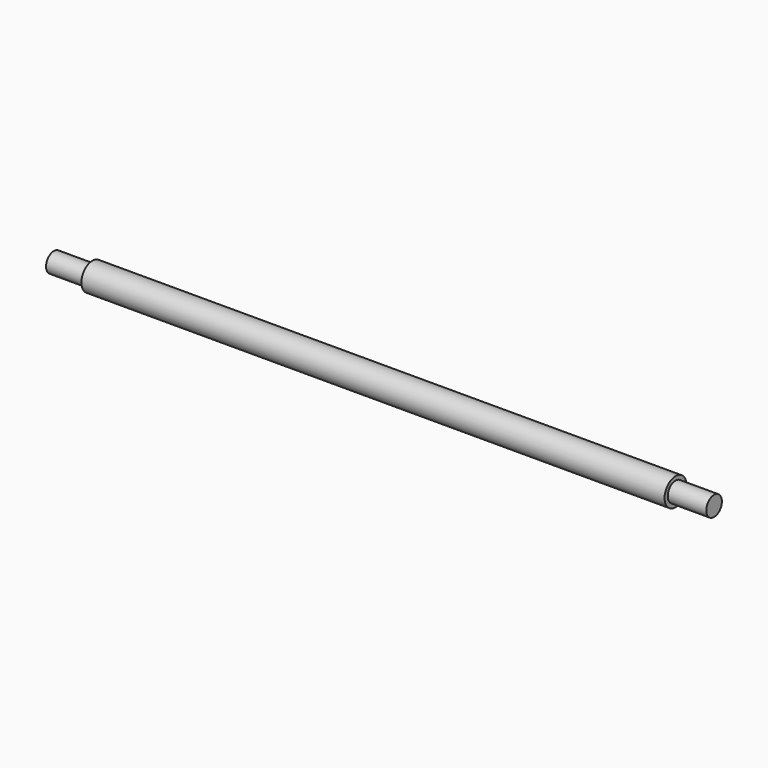
from build123d import *

# Parameters (mm, degrees)
F0_W = 4.445
F0_H = 1.1303


with BuildPart() as f1:
    # F0 (on Top) → F1 (revolve)
    with BuildSketch(Plane.XY):
        with Locations((69.5325, 0.56515)):
            Rectangle(F0_W, F0_H)
        with Locations((-2.2225, 0.56515)):
            Rectangle(F0_W, F0_H)
        Polygon((0, 1.1303), (0, 0), (67.31, 0), (67.31, 1.1303), (67.31, 1.5875), (0, 1.5875), align=None)
    revolve(axis=Axis((33.655, 0, 0), (1, 0, 0)))


solid = f1.part
